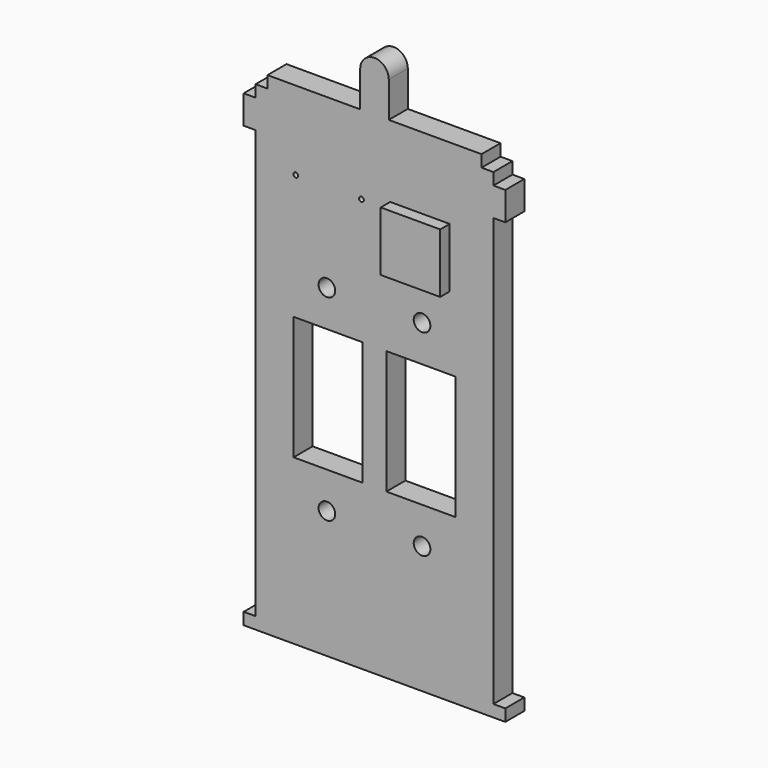
from build123d import *

# Parameters (mm, degrees)
F0_W      = 127
F0_H      = 0.1285925341
F0_H_2    = 228.4714074659
F0_W_2    = 15.24
F0_H_3    = 19.05
F3_DEPTH  = 6.35
F2_W      = 31.75
F2_H      = 31.75
F4_DEPTH  = 12.7
F5_W      = 36.83
F5_H      = 66.039527216
F6_DEPTH  = 50.8
F7_R      = 1.27
F8_DEPTH  = 12.7
F9_R      = 4.445
F10_DEPTH = 12.7


with BuildPart() as f3:
    # F0 (on Front) → F3 (new body, symmetric)
    with BuildSketch(Plane.XZ):
        Polygon((-63.5, 114.1714074659), (-63.5, 114.3), (63.5, 114.3), (63.5, 114.1714074659), (69.85, 114.1714074659), (69.85, 129.4114074659), (63.5, 129.4114074659), (-63.5, 129.4114074659), (-69.85, 129.4114074659), (-69.85, 114.1714074659), align=None)
        with Locations((0, 114.235703733)):
            Rectangle(F0_W, F0_H)
        with Locations((0, -0.064296267)):
            Rectangle(F0_W, F0_H_2)
        Polygon((63.5, -114.3), (-63.5, -114.3), (-69.85, -114.3), (-69.85, -120.65), (69.85, -120.65), (69.85, -114.3), align=None)
        Polygon((-63.5, 135.7614074659), (-63.5, 129.4114074659), (63.5, 129.4114074659), (63.5, 135.7614074659), (57.15, 135.7614074659), (-57.15, 135.7614074659), align=None)
        Polygon((-57.15, 142.1114074659), (-57.15, 135.7614074659), (57.15, 135.7614074659), (57.15, 142.1114074659), (7.62, 142.1114074659), (-7.62, 142.1114074659), align=None)
        with Locations((0, 151.6364074659)):
            Rectangle(F0_W_2, F0_H_3)
        with BuildLine():
            ThreePointArc((7.62, 161.1614074659), (0, 168.7814074659), (-7.62, 161.1614074659))
            Line((-7.62, 161.1614074659), (7.62, 161.1614074659))
        make_face()
    extrude(amount=F3_DEPTH, both=True)

    # F2 (on face) → F4 (join)
    with BuildSketch(Plane.XZ):
        with Locations((24.2836736143, 87.9182294011)):
            Rectangle(F2_W, F2_H)
    extrude(amount=F4_DEPTH)

    # F5 (on face) → F6 (cut)
    with BuildSketch(Plane.XZ.offset(6.35)):
        with Locations((24.765, 0.0003129244)):
            Rectangle(F5_W, F5_H)
        with Locations((-24.765, 0.0003129244)):
            Rectangle(F5_W, F5_H)
    extrude(amount=-F6_DEPTH, mode=Mode.SUBTRACT)

    # F7 (on face) → F8 (cut, symmetric)
    with BuildSketch(Plane.XZ.offset(6.35)):
        with Locations((-42.0314632356, 100.0508442521)):
            Circle(F7_R)
        with Locations((-6.9654858671, 100.0512316823)):
            Circle(F7_R)
    extrude(amount=F8_DEPTH, both=True, mode=Mode.SUBTRACT)

    # F9 (on face) → F10 (cut, symmetric)
    with BuildSketch(Plane.XZ.offset(6.35)):
        with Locations((-25.4, 52.5126196444)):
            Circle(F9_R)
        with Locations((25.4, 52.5126196444)):
            Circle(F9_R)
        with Locations((-25.4, -52.5126196444)):
            Circle(F9_R)
        with Locations((25.4, -52.5126196444)):
            Circle(F9_R)
    extrude(amount=F10_DEPTH, both=True, mode=Mode.SUBTRACT)


solid = f3.part
